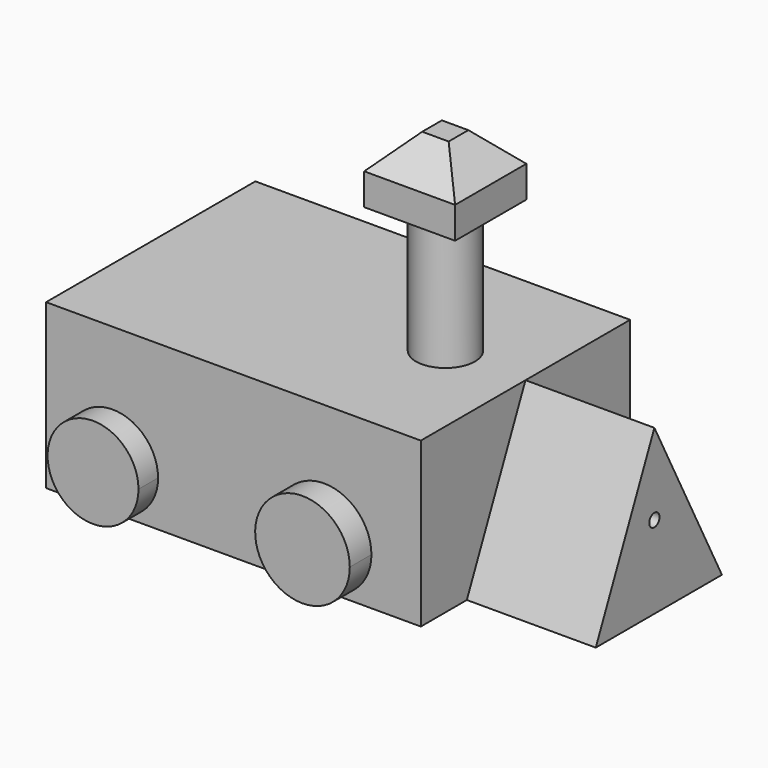
from build123d import *

# Parameters (mm, degrees)
F0_W      = 58.1367611885
F0_H      = 40.580611676
F1_DEPTH  = 25.4
F3_DEPTH  = 20
F4_R      = 4.5710395081
F5_DEPTH  = 20
F6_W      = 14.1024822369
F6_H      = 13.814676553
F7_DEPTH  = 9.9
F8_SIZE   = 5
F10_DEPTH = 3.8
F12_DEPTH = 4.2
F14_DEPTH = 3.4
F16_DEPTH = 3.4
F18_D     = 1.9939


with BuildPart() as f1:
    # F0 (on Top) → F1 (new body)
    with BuildSketch(Plane.XY):
        with Locations((1.5829298645, 0)):
            Rectangle(F0_W, F0_H)
    extrude(amount=F1_DEPTH)

    # F2 (on face) → F3 (join)
    with BuildSketch(Plane.YZ.offset(30.6513104588)):
        Polygon((13.0951609462, 0), (0, 25.4), (-11.3683268428, 0), align=None)
    extrude(amount=F3_DEPTH)

    # F4 (on face) → F5 (join)
    with BuildSketch(Plane.XY.offset(25.4)):
        with Locations((18.2379763573, 0)):
            Circle(F4_R)
    extrude(amount=F5_DEPTH)

    # F6 (on face) → F7 (join)
    with BuildSketch(Plane.XY.offset(45.4)):
        with Locations((18.0940716527, 0.143902842)):
            Rectangle(F6_W, F6_H)
    extrude(amount=F7_DEPTH)

    # F8
    f8_edges = [f1.edges().sort_by_distance(p)[0] for p in [
        (18.094072, 7.051241, 55.3),
        (11.042831, 0.143903, 55.3),
        (18.094072, -6.763435, 55.3),
        (25.145313, 0.143903, 55.3),
    ]]
    chamfer(f8_edges, length=F8_SIZE)

    # F9 (on face) → F10 (join)
    with BuildSketch(Plane.XZ.offset(20.290305838)):
        with BuildLine():
            ThreePointArc((-17.1621330082, 0), (-12.1761525976, 2.0652607078), (-10.1108918898, 7.0512411185))
            ThreePointArc((-10.1108918898, 7.0512411185), (-22.1481134189, 12.0372215291), (-17.1621330082, 0))
        make_face()
    extrude(amount=F10_DEPTH)

    # F11 (on face) → F12 (join)
    with BuildSketch(Plane.XZ.offset(20.290305838)):
        with BuildLine():
            ThreePointArc((15.647722408, 0), (20.8372121695, 2.1495570409), (22.9867692105, 7.3390468024))
            ThreePointArc((22.9867692105, 7.3390468024), (10.4582326468, 12.5285365638), (15.647722408, 0))
        make_face()
    extrude(amount=F12_DEPTH)

    # F18 (through all)
    with Locations(Plane(origin=(-27.4854507297, 0, 0), x_dir=(0, -1, 0), z_dir=(-1, 0, 0))):
        with Locations((0, 12.8073561937)):
            Hole(F18_D / 2)


with BuildPart() as f14:
    # F13 (on face) → F14 (new body)
    with BuildSketch(Plane(origin=(0, 20.290305838, 0), x_dir=(-1, 0, 0), z_dir=(0, 1, 0))):
        with BuildLine():
            ThreePointArc((-16.8743282557, 0), (-11.888347845, 2.0652607078), (-9.8230871372, 7.0512411185))
            ThreePointArc((-9.8230871372, 7.0512411185), (-21.8603086663, 12.0372215291), (-16.8743282557, 0))
        make_face()
    extrude(amount=F14_DEPTH)


with BuildPart() as f16:
    # F15 (on face) → F16 (new body)
    with BuildSketch(Plane(origin=(0, 20.290305838, 0), x_dir=(-1, 0, 0), z_dir=(0, 1, 0))):
        with BuildLine():
            ThreePointArc((13.0574721843, 0), (18.4504712965, 2.2338533741), (20.6843246706, 7.6268524863))
            ThreePointArc((20.6843246706, 7.6268524863), (7.6644730721, 13.0198515984), (13.0574721843, 0))
        make_face()
    extrude(amount=F16_DEPTH)


solid = Compound([f1.part, f14.part, f16.part])
